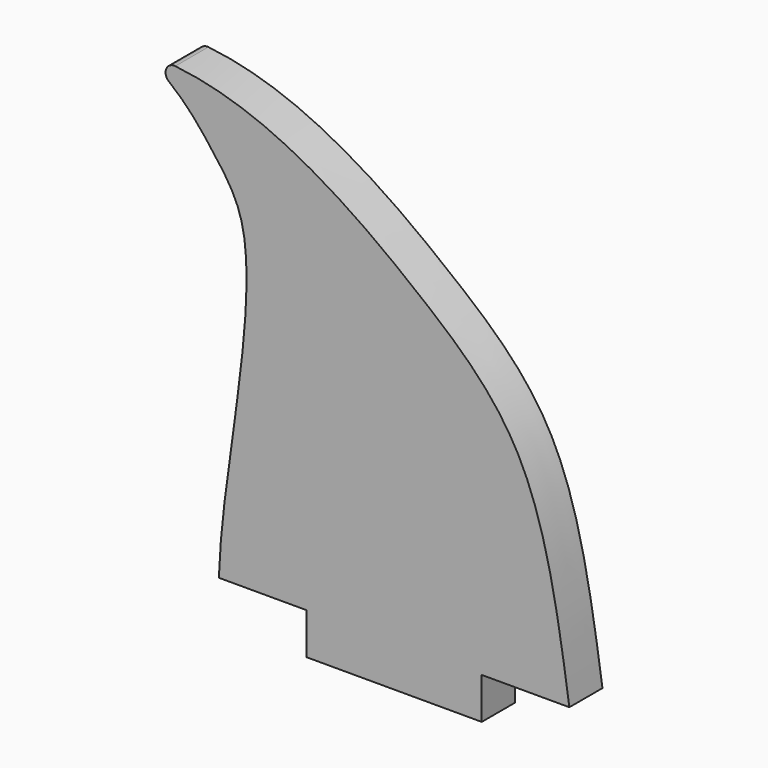
from build123d import *

# Parameters (mm, degrees)
F1_DEPTH = 3
F2_R     = 0.635


with BuildPart() as f1:
    # F0 (on Front) → F1 (new body)
    with BuildSketch(Plane.XZ):
        with BuildLine():
            Line((-6.35, 1.5), (-6.35, -1.5))
            Line((-6.35, -1.5), (6.35, -1.5))
            Line((6.35, -1.5), (6.35, 1.5))
            Line((6.35, 1.5), (12.7, 1.5))
            add(Edge.make_bspline(
                [(-18.2788185775, 33.25), (-13.3881829887, 33.249924231), (-5.9212908921, 30.2024959046), (1.9629046813, 24.292081617), (10.3732054955, 17.0859768265), (11.8753107125, 7.1481850282), (12.7, 1.5)],
                knots=[0, 0, 0, 0, 0.2581191303, 0.4828394971, 0.7146874282, 1, 1, 1, 1], degree=3))
            add(Edge.make_bspline(
                [(-18.2788185775, 33.25), (-15.7212212497, 31.9133304564), (-13.1275464315, 28.584811238), (-10.04593733, 24.3915865531), (-11.3759748072, 12.5093687933), (-12.586874571, 5.0211525088), (-12.7, 1.5)],
                knots=[0, 0, 0, 0, 0.2284214234, 0.4161195871, 0.7078631304, 1, 1, 1, 1], degree=3))
            Line((-12.7, 1.5), (-6.35, 1.5))
        make_face()
    extrude(amount=F1_DEPTH)

    # F2
    f2_edges = [f1.edges().sort_by_distance(p)[0] for p in [
        (-18.278819, -1.5, 33.25),
    ]]
    fillet(f2_edges, radius=F2_R)


solid = f1.part
